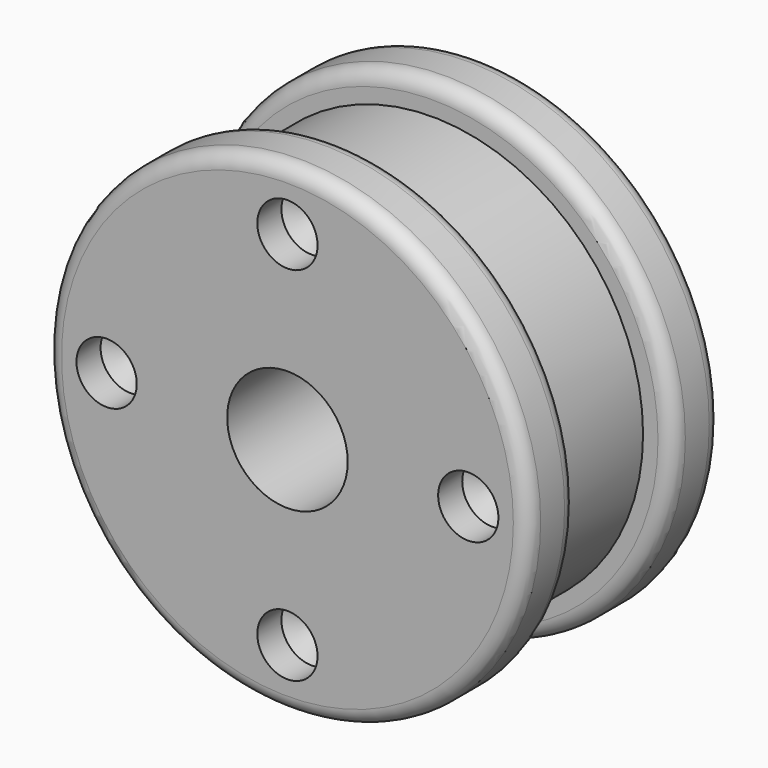
from build123d import *

# Parameters (mm, degrees)
F0_R      = 25.4
F1_DEPTH  = 6.35
F2_R      = 22.225
F3_DEPTH  = 12.7
F4_R      = 25.4
F5_DEPTH  = 6.35
F7_D      = 6.35
F7_DEPTH  = 3.175
F7_TIP    = 1.9077324654
F8_R      = 1.6002
F9_R      = 6.35
F10_DEPTH = 25.401


with BuildPart() as f1:
    # F0 (on Front) → F1 (new body)
    with BuildSketch(Plane.XZ):
        Circle(F0_R)
    extrude(amount=F1_DEPTH)

    # F2 (on face) → F3 (join)
    with BuildSketch(Plane.XZ.offset(6.35)):
        Circle(F2_R)
    extrude(amount=F3_DEPTH)

    # F4 (on face) → F5 (join)
    with BuildSketch(Plane.XZ.offset(19.05)):
        Circle(F4_R)
    extrude(amount=F5_DEPTH)

    # F7
    with Locations(Plane.XZ.offset(25.4)):
        with Locations((0, 19.05), (19.05, 0), (0, -19.05), (-19.05, 0)):
            Hole(F7_D / 2, depth=F7_DEPTH)
            with Locations((0, 0, -(F7_DEPTH + F7_TIP / 2))):  # 118° drill point
                Cone(0, F7_D / 2, F7_TIP, mode=Mode.SUBTRACT)

    # F8
    f8_edges = [f1.edges().sort_by_distance(p)[0] for p in [
        (-25.4, -25.4, 0),
        (-25.4, -19.05, 0),
        (-25.4, -6.35, 0),
        (-25.4, 0, 0),
    ]]
    fillet(f8_edges, radius=F8_R)

    # F9 (on face) → F10 (cut, through all)
    with BuildSketch(Plane.XZ.offset(25.4)):
        Circle(F9_R)
    extrude(amount=-F10_DEPTH, mode=Mode.SUBTRACT)


solid = f1.part
